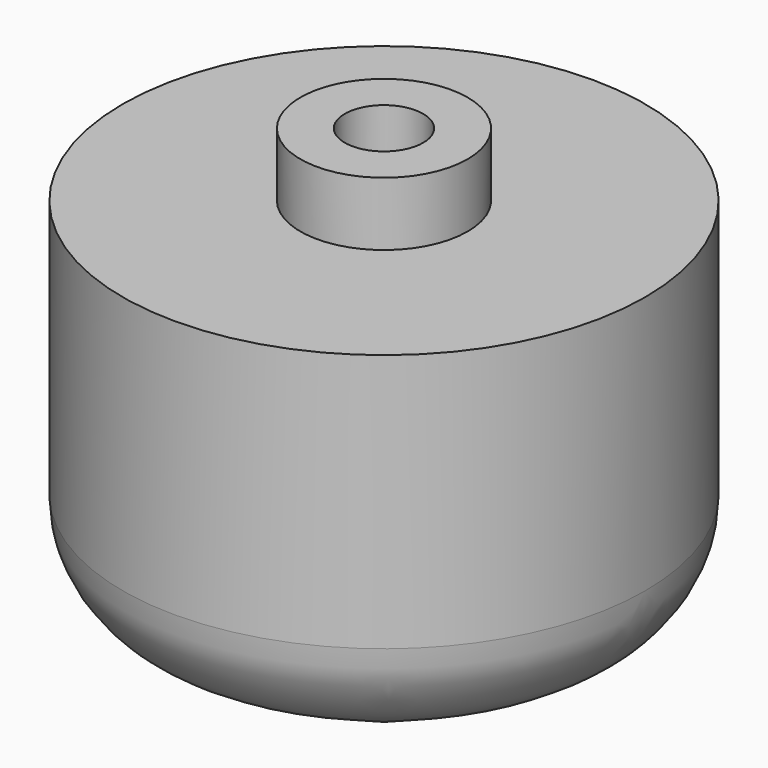
from build123d import *

# Parameters (mm, degrees)
F2_R     = 4.7625
F3_DEPTH = 9.525
F5_R     = 12.7
F4_R     = 1.5875
F6_DEPTH = 14.3002


with BuildPart() as f1:
    # F0 (on Front) → F1 (revolve)
    with BuildSketch(Plane.XZ):
        Polygon((10.16, 55.764545), (10.16, 63.5), (0, 63.5), (0, 0), (31.75, 16.686577), (31.75, 28.86522), (31.75, 46.204952), (31.75, 55.764545), align=None)
    revolve(axis=Axis((0, 0, 31.75), (0, 0, -1)))

    # F2 (on face) → F3 (cut)
    with BuildSketch(Plane.XY.offset(63.5)):
        Circle(F2_R)
    extrude(amount=-F3_DEPTH, mode=Mode.SUBTRACT)

    # F5
    f5_edges = [f1.edges().sort_by_distance(p)[0] for p in [
        (-31.75, 0, 16.686577),
    ]]
    fillet(f5_edges, radius=F5_R)

    # F4 (on Top) → F6 (cut)
    with BuildSketch(Plane.XY):
        Circle(F4_R)
    extrude(amount=F6_DEPTH, mode=Mode.SUBTRACT)


solid = f1.part
